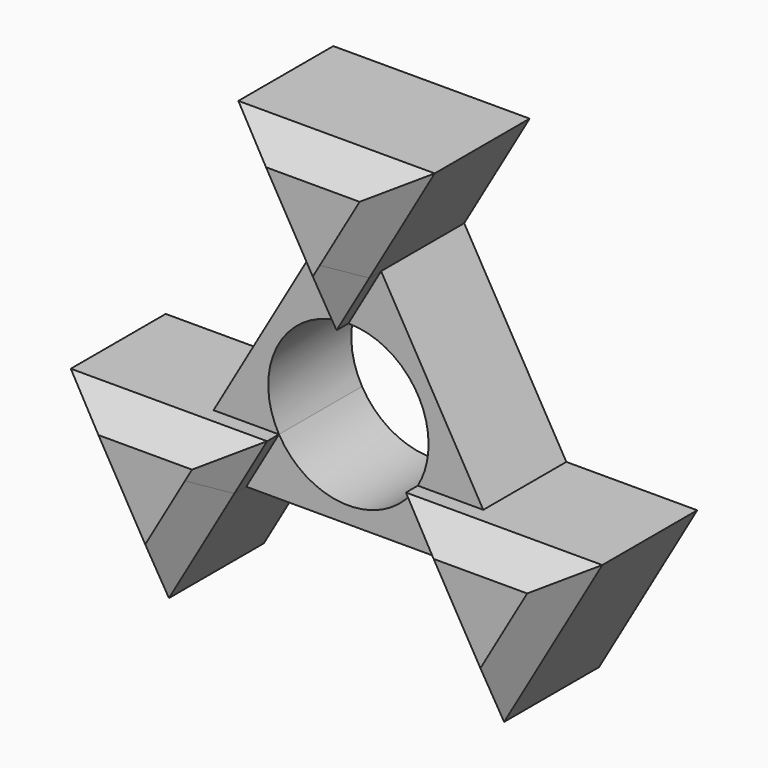
from build123d import *

# Parameters (mm, degrees)
F1_DEPTH  = 25.4
F2_DEPTH  = 17.78
F3_SIZE   = 5.08
F3_2_SIZE = 5.08
F3_3_SIZE = 5.08
F4_SIZE   = 5.08


with BuildPart() as f1:
    # F0 (on Front) → F1 (new body)
    with BuildSketch(Plane.XZ):
        Polygon((45.5153971005, -6.864500683), (23.0982416679, -6.864500683), (28.702530526, -16.5714137256), (17.4939528097, -16.5714137256), (28.702530526, -35.9852398108), align=None)
        Polygon((28.702530526, -16.5714137256), (23.0982416679, -6.864500683), (11.8896639515, -6.864500683), align=None)
        Polygon((17.4939528097, -16.5714137256), (28.702530526, -16.5714137256), (11.8896639515, -6.864500683), align=None)
    extrude(amount=F1_DEPTH)

    # F3#2
    f3_2_edges = [f1.edges().sort_by_distance(p)[0] for p in [
        (28.702531, -25.4, -6.864501),
        (20.296097, -25.4, -21.42487),
    ]]
    chamfer(f3_2_edges, length=F3_2_SIZE)

    # F4
    f4_edges = [f1.edges().sort_by_distance(p)[0] for p in [
        (37.108964, -25.4, -21.42487),
    ]]
    chamfer(f4_edges, length=F4_SIZE)


with BuildPart() as f1b:
    # F0 (on Front) → F1, piece 2 (new body)
    with BuildSketch(Plane.XZ):
        Polygon((-28.702530526, -16.5714137256), (-23.0982416679, -6.864500683), (-45.5153971005, -6.864500683), (-28.702530526, -35.9852398108), (-17.4939528097, -16.5714137256), align=None)
        Polygon((-11.8896639515, -6.864500683), (-23.0982416679, -6.864500683), (-28.702530526, -16.5714137256), align=None)
        Polygon((-17.4939528097, -16.5714137256), (-11.8896639515, -6.864500683), (-28.702530526, -16.5714137256), align=None)
    extrude(amount=F1_DEPTH)

    # F3#3
    f3_3_edges = [f1b.edges().sort_by_distance(p)[0] for p in [
        (-20.296097, -25.4, -21.42487),
        (-28.702531, -25.4, -6.864501),
        (-37.108964, -25.4, -21.42487),
    ]]
    chamfer(f3_3_edges, length=F3_3_SIZE)


with BuildPart() as f1c:
    # F0 (on Front) → F1, piece 3 (new body)
    with BuildSketch(Plane.XZ):
        Polygon((5.6042888582, 23.4359144086), (0, 33.1428274512), (0, 13.729001366), align=None)
        Polygon((0, 13.729001366), (0, 33.1428274512), (-5.6042888582, 23.4359144086), align=None)
        Polygon((-5.6042888582, 23.4359144086), (0, 33.1428274512), (5.6042888582, 23.4359144086), (16.8128665745, 42.8497404938), (-16.8128665745, 42.8497404938), align=None)
    extrude(amount=F1_DEPTH)

    # F3
    f3_edges = [f1c.edges().sort_by_distance(p)[0] for p in [
        (-8.406433, -25.4, 28.289371),
        (8.406433, -25.4, 28.289371),
        (0, -25.4, 42.84974),
    ]]
    chamfer(f3_edges, length=F3_SIZE)


with BuildPart() as f2:
    # F0 (on Front) → F2 (new body)
    with BuildSketch(Plane.XZ):
        with BuildLine():
            Line((23.0982416679, -6.864500683), (5.6042888582, 23.4359144086))
            Line((5.6042888582, 23.4359144086), (0, 13.729001366))
            ThreePointArc((0, 13.729001366), (9.7078699648, 9.7078699648), (13.729001366, 0))
            ThreePointArc((13.729001366, 0), (13.2611969886, -3.5533270238), (11.8896639515, -6.864500683))
            Line((11.8896639515, -6.864500683), (23.0982416679, -6.864500683))
        make_face()
    extrude(amount=F2_DEPTH)


with BuildPart() as f2b:
    # F0 (on Front) → F2, piece 2 (new body)
    with BuildSketch(Plane.XZ):
        with BuildLine():
            ThreePointArc((11.8896639515, -6.864500683), (0, -13.729001366), (-11.8896639515, -6.864500683))
            Line((-11.8896639515, -6.864500683), (-17.4939528097, -16.5714137256))
            Line((-17.4939528097, -16.5714137256), (17.4939528097, -16.5714137256))
            Line((17.4939528097, -16.5714137256), (11.8896639515, -6.864500683))
        make_face()
    extrude(amount=F2_DEPTH)


with BuildPart() as f2c:
    # F0 (on Front) → F2, piece 3 (new body)
    with BuildSketch(Plane.XZ):
        with BuildLine():
            Line((0, 13.729001366), (-5.6042888582, 23.4359144086))
            Line((-5.6042888582, 23.4359144086), (-23.0982416679, -6.864500683))
            Line((-23.0982416679, -6.864500683), (-11.8896639515, -6.864500683))
            ThreePointArc((-11.8896639515, -6.864500683), (-11.8896639515, 6.864500683), (0, 13.729001366))
        make_face()
    extrude(amount=F2_DEPTH)


solid = Compound([f1.part, f1b.part, f1c.part, f2.part, f2b.part, f2c.part])
